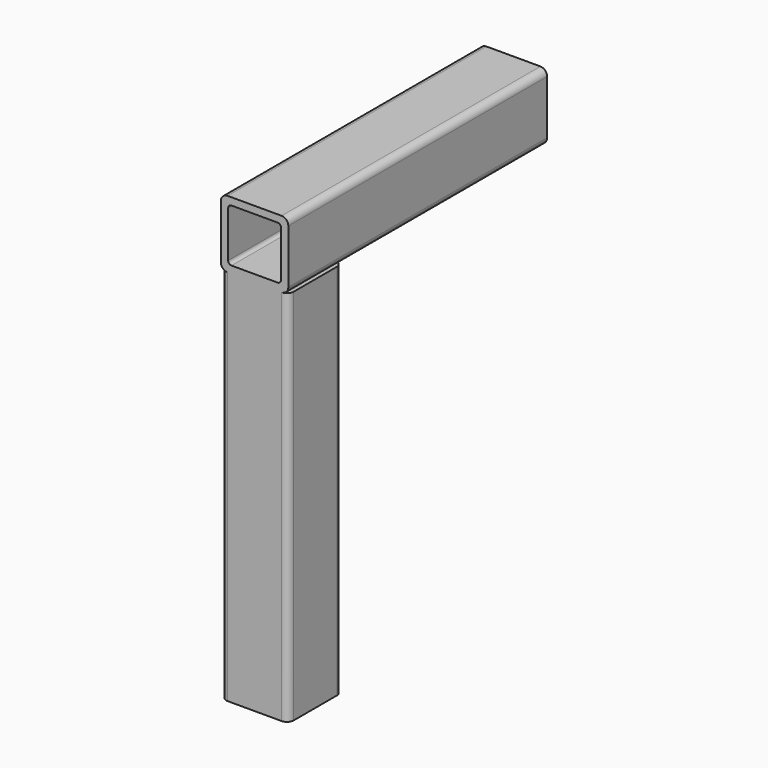
from build123d import *

# Parameters (mm, degrees)
F1_DEPTH      = 76.2
F1_DEPTH_BACK = 101.6
F3_DEPTH      = 152.4


with BuildPart() as f1:
    # F0 (on Top) → F1 (new body, two sides)
    with BuildSketch(Plane.XY) as f1_sk:
        with BuildLine():
            ThreePointArc((15.875, 12.7), (14.945064, 14.945064), (12.7, 15.875))
            Line((12.7, 15.875), (-12.7, 15.875))
            ThreePointArc((-12.7, 15.875), (-14.945064, 14.945064), (-15.875, 12.7))
            Line((-15.875, 12.7), (-15.875, -12.7))
            ThreePointArc((-15.875, -12.7), (-14.945064, -14.945064), (-12.7, -15.875))
            Line((-12.7, -15.875), (12.7, -15.875))
            ThreePointArc((12.7, -15.875), (14.945064, -14.945064), (15.875, -12.7))
            Line((15.875, -12.7), (15.875, 12.7))
        make_face()
        with BuildLine():
            ThreePointArc((10.8585, 12.446), (11.981032, 11.981032), (12.446, 10.8585))
            Line((12.446, 10.8585), (12.446, -10.8585))
            ThreePointArc((12.446, -10.8585), (11.981032, -11.981032), (10.8585, -12.446))
            Line((10.8585, -12.446), (-10.8585, -12.446))
            ThreePointArc((-10.8585, -12.446), (-11.981032, -11.981032), (-12.446, -10.8585))
            Line((-12.446, -10.8585), (-12.446, 10.8585))
            ThreePointArc((-12.446, 10.8585), (-11.981032, 11.981032), (-10.8585, 12.446))
            Line((-10.8585, 12.446), (10.8585, 12.446))
        make_face(mode=Mode.SUBTRACT)
    extrude(amount=F1_DEPTH)
    extrude(f1_sk.sketch, amount=-F1_DEPTH_BACK)

    # F2 (on face) → F3 (join)
    with BuildSketch(Plane.XZ.offset(15.875)):
        with BuildLine():
            Line((-12.7, 76.2), (12.7, 76.2))
            ThreePointArc((12.7, 76.2), (14.945064, 77.129936), (15.875, 79.375))
            Line((15.875, 79.375), (15.875, 104.775))
            ThreePointArc((15.875, 104.775), (14.945064, 107.020064), (12.7, 107.95))
            Line((12.7, 107.95), (-12.7, 107.95))
            ThreePointArc((-12.7, 107.95), (-14.945064, 107.020064), (-15.875, 104.775))
            Line((-15.875, 104.775), (-15.875, 79.375))
            ThreePointArc((-15.875, 79.375), (-14.945064, 77.129936), (-12.7, 76.2))
        make_face()
        with BuildLine():
            Line((-12.446, 81.2165), (-12.446, 102.9335))
            ThreePointArc((-12.446, 102.9335), (-11.981032, 104.056032), (-10.8585, 104.521))
            Line((-10.8585, 104.521), (10.8585, 104.521))
            ThreePointArc((10.8585, 104.521), (11.981032, 104.056032), (12.446, 102.9335))
            Line((12.446, 102.9335), (12.446, 81.2165))
            ThreePointArc((12.446, 81.2165), (11.981032, 80.093968), (10.8585, 79.629))
            Line((10.8585, 79.629), (-10.8585, 79.629))
            ThreePointArc((-10.8585, 79.629), (-11.981032, 80.093968), (-12.446, 81.2165))
        make_face(mode=Mode.SUBTRACT)
    extrude(amount=-F3_DEPTH)


solid = f1.part
